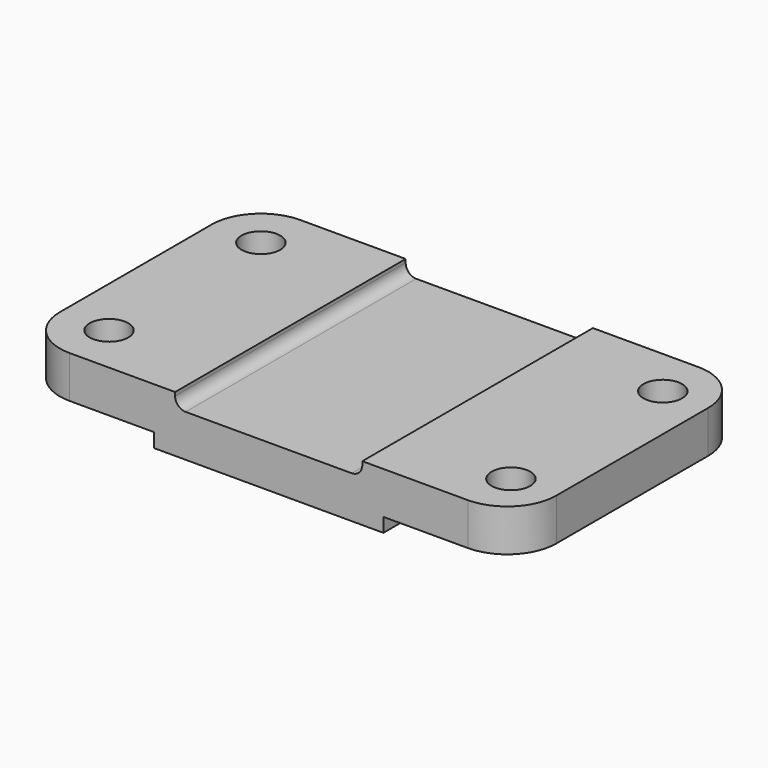
from build123d import *

# Parameters (mm, degrees)
F1_DEPTH = 82
F2_R     = 14
F3_R     = 5.5
F4_DEPTH = 16.001
F5_R     = 3


with BuildPart() as f1:
    # F0 (on Front) → F1 (new body)
    with BuildSketch(Plane.XZ):
        Polygon((0, 12), (0, 0), (38, 0), (38, -4), (103.254273, -4), (103.254273, 0), (141.254273, 0), (141.254273, 12), (97.254273, 12), (97.254273, 8), (44, 8), (44, 12), align=None)
    extrude(amount=F1_DEPTH)

    # F2
    f2_edges = [f1.edges().sort_by_distance(p)[0] for p in [
        (141.254273, -82, 6),
        (141.254273, 0, 6),
        (0, -82, 6),
        (0, 0, 6),
    ]]
    fillet(f2_edges, radius=F2_R)

    # F3 (on face) → F4 (cut, through all)
    with BuildSketch(Plane.XY.offset(12)):
        with Locations((128.337874, -68)):
            Circle(F3_R)
        with Locations((128.337874, -14)):
            Circle(F3_R)
        with Locations((14, -68)):
            Circle(F3_R)
        with Locations((14, -14)):
            Circle(F3_R)
    extrude(amount=-F4_DEPTH, mode=Mode.SUBTRACT)

    # F5
    f5_edges = [f1.edges().sort_by_distance(p)[0] for p in [
        (44, -41, 8),
        (97.254273, -41, 8),
    ]]
    fillet(f5_edges, radius=F5_R)


solid = f1.part
